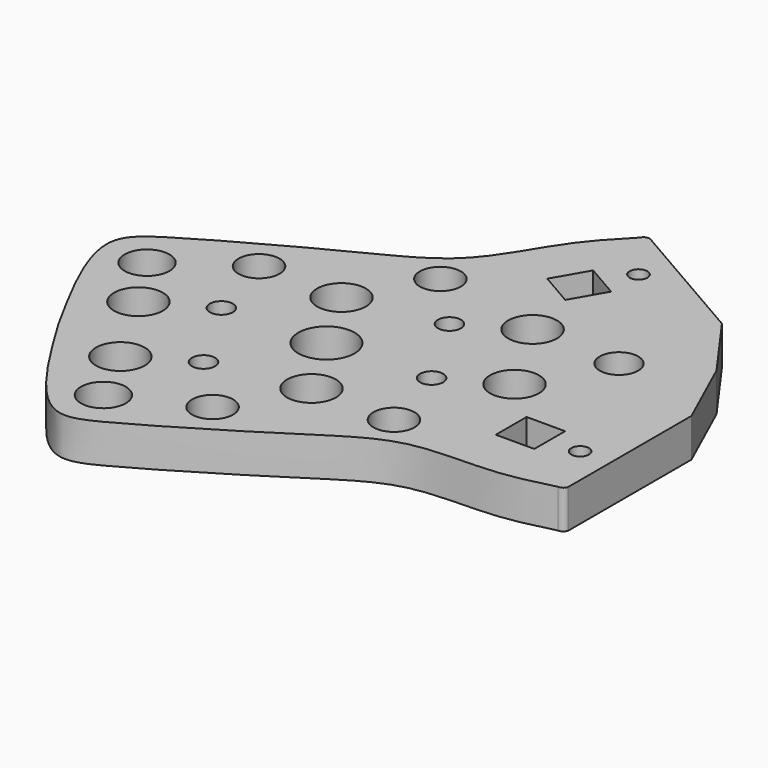
from build123d import *

# Parameters (mm, degrees)
F0_R     = 3.6991956247
F0_R_2   = 4.026841149
F0_R_3   = 3.3886536063
F0_R_4   = 1.905
F0_R_5   = 4.6394749598
F0_R_6   = 4.0259
F0_R_7   = 1.4605
F0_R_8   = 4.0206111299
F0_R_9   = 3.175
F1_DEPTH = 6.35


with BuildPart() as f1:
    # F0 (on Top) → F1 (new body)
    with BuildSketch(Plane.XY):
        with BuildLine():
            Line((-141.4227864561, -66.6218475655), (-163.4241964397, -53.9294104972))
            ThreePointArc((-163.4241964397, -53.9294104972), (-164.1313397385, -53.975439652), (-164.6406632246, -54.4681463746))
            add(Edge.make_bspline(
                [(-164.6406632246, -54.4681463746), (-166.8207980796, -56.6978269307), (-171.528631351, -61.5126503269), (-177.767164735, -74.2020796991), (-190.4741100146, -80.1278343186), (-211.5090120019, -91.6224967819), (-220.2749544911, -97.9345025381), (-212.7776668762, -111.5448305395), (-208.0523381948, -120.1230359614)],
                knots=[0, 0, 0, 0, 0.1348504526, 0.2911991641, 0.4550987998, 0.6670528696, 0.7901528252, 1, 1, 1, 1], degree=3))
            add(Edge.make_bspline(
                [(-129.4876984449, -115.3548674096), (-132.5087258763, -116.1280792997), (-139.0324018879, -117.7977708115), (-153.1410367757, -116.8557845182), (-164.6263634526, -124.8974446251), (-185.0984841474, -137.3668728806), (-194.9478127257, -141.8023988863), (-202.9860587213, -128.5043933516), (-208.0523381948, -120.1230359614)],
                knots=[0, 0, 0, 0, 0.1348504526, 0.2911991641, 0.4550987998, 0.6670528696, 0.7901528252, 1, 1, 1, 1], degree=3))
            ThreePointArc((-129.4876984968, -115.3548674058), (-128.8063401905, -115.1601336713), (-128.4129061342, -114.5707441463))
            Line((-128.4129060967, -114.5707442098), (-128.404174042, -89.1707457108))
            Line((-128.404174042, -89.1707457108), (-133.8041937755, -77.255849794))
            Line((-133.8041937755, -77.255849794), (-141.4227864561, -66.6218475655))
        make_face()
        with Locations((-191.1778805534, -131.9342647815)):
            Circle(F0_R, mode=Mode.SUBTRACT)
        with Locations((-196.1711188502, -122.1951915252)):
            Circle(F0_R_2, mode=Mode.SUBTRACT)
        with Locations((-178.1075212771, -125.767988665)):
            Circle(F0_R_3, mode=Mode.SUBTRACT)
        with Locations((-209.8439335823, -99.6037125587)):
            Circle(F0_R, mode=Mode.SUBTRACT)
        with Locations((-203.9062678814, -108.7975203991)):
            Circle(F0_R_2, mode=Mode.SUBTRACT)
        with Locations((-186.8646724425, -116.6891495382)):
            Circle(F0_R_4, mode=Mode.SUBTRACT)
        with Locations((-194.4846724425, -103.4909223845)):
            Circle(F0_R_4, mode=Mode.SUBTRACT)
        with Locations((-177.8064009676, -102.6605359614)):
            Circle(F0_R_5, mode=Mode.SUBTRACT)
        with Locations((-171.3929009676, -113.7690438157)):
            Circle(F0_R_6, mode=Mode.SUBTRACT)
        with Locations((-157.6441997548, -113.9534844755)):
            Circle(F0_R_3, mode=Mode.SUBTRACT)
        with Locations((-161.1281294928, -101.8301495382)):
            Circle(F0_R_4, mode=Mode.SUBTRACT)
        Polygon((-144.7995185789, -109.020163878), (-144.7973355651, -102.67016399), (-138.4473359404, -102.6723470036), (-138.449514529, -109.009475081), align=None, mode=Mode.SUBTRACT)
        with Locations((-133.4291656805, -105.8426365719)):
            Circle(F0_R_7, mode=Mode.SUBTRACT)
        with Locations((-197.9686021805, -91.3675874472)):
            Circle(F0_R_3, mode=Mode.SUBTRACT)
        with Locations((-184.2199009676, -91.552028107)):
            Circle(F0_R_8, mode=Mode.SUBTRACT)
        with Locations((-177.5052806582, -79.5530832577)):
            Circle(F0_R_3, mode=Mode.SUBTRACT)
        with Locations((-168.7481294928, -88.6319223845)):
            Circle(F0_R_4, mode=Mode.SUBTRACT)
        with Locations((-151.7065340539, -96.5235515236)):
            Circle(F0_R_2, mode=Mode.SUBTRACT)
        with Locations((-159.4416830851, -83.1258803975)):
            Circle(F0_R_2, mode=Mode.SUBTRACT)
        with Locations((-144.8108330835, -83.6105359613)):
            Circle(F0_R_9, mode=Mode.SUBTRACT)
        Polygon((-158.1370971167, -68.5686802574), (-161.3102063838, -74.0690327533), (-166.8105591077, -70.8959233546), (-163.6374498407, -65.3955708587), align=None, mode=Mode.SUBTRACT)
        with Locations((-158.3735632902, -62.6376725477)):
            Circle(F0_R_7, mode=Mode.SUBTRACT)
    extrude(amount=F1_DEPTH)


solid = f1.part
